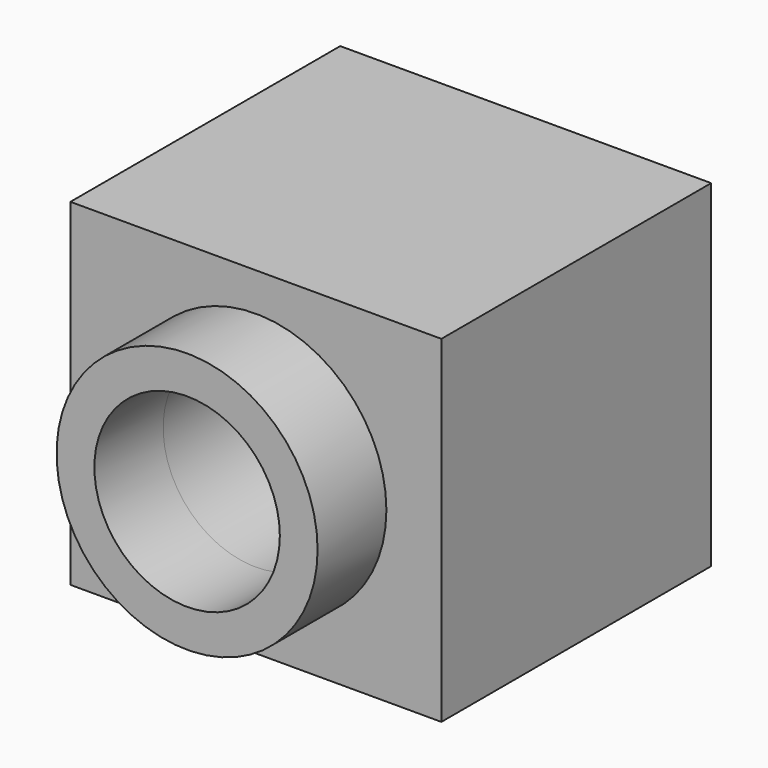
from build123d import *

# Parameters (mm, degrees)
F0_W     = 55.88
F0_H     = 50.8
F1_DEPTH = 25.4
F2_R     = 13.97
F3_DEPTH = 127
F4_R     = 19.6578172959
F4_R_2   = 13.97
F5_DEPTH = 12.954


with BuildPart() as f1:
    # F0 (on Front) → F1 (new body, symmetric)
    with BuildSketch(Plane.XZ):
        Rectangle(F0_W, F0_H)
    extrude(amount=F1_DEPTH, both=True)

    # F2 (on face) → F3 (cut)
    with BuildSketch(Plane.XZ.offset(25.4)):
        Circle(F2_R)
    extrude(amount=-F3_DEPTH, mode=Mode.SUBTRACT)

    # F4 (on face) → F5 (join)
    with BuildSketch(Plane.XZ.offset(25.4)):
        Circle(F4_R)
        Circle(F4_R_2, mode=Mode.SUBTRACT)
    extrude(amount=F5_DEPTH)


solid = f1.part
